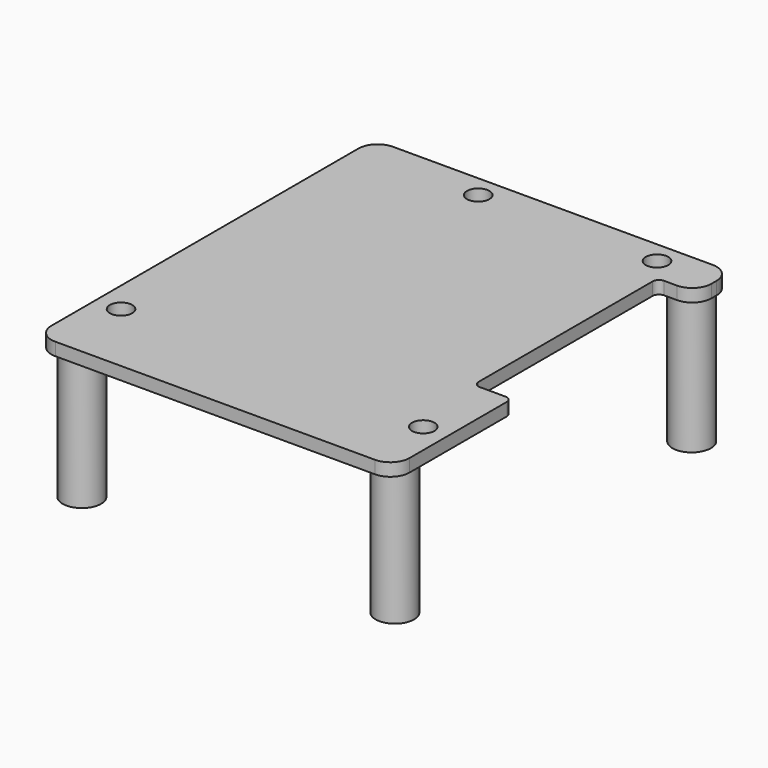
from build123d import *

# Parameters (mm, degrees)
PAD_DEPTH     = 2
SKETCH001_R   = 1.75
POCKET_DEPTH  = 5
SKETCH002_R   = 3
SKETCH002_R_2 = 1.6
PAD001_DEPTH  = 21


with BuildPart() as part:
    # Sketch → Pad (new body)
    with BuildSketch(Plane.XY):
        with BuildLine():
            Line((-25.000066, 40.999736), (24.999953, 40.999736))
            ThreePointArc((28.000009, 38.000002), (27.121199, 40.121154), (24.999953, 40.999736))
            Line((28.000009, 38.000002), (28.000116, 37))
            ThreePointArc((25.000438, 34), (27.121645, 34.878699), (28.000116, 37))
            Line((25.000438, 34), (23, 34))
            ThreePointArc((23, 34), (22.292893, 33.707107), (22, 33))
            Line((22, 33), (22, -1.000001))
            ThreePointArc((22, -1.000001), (22.292893, -1.707108), (23, -2.000001))
            Line((23, -2.000001), (26.999998, -2.000001))
            ThreePointArc((27.999996, -2.999999), (27.707103, -2.292894), (26.999998, -2.000001))
            Line((27.999996, -2.999999), (27.999996, -21.999992))
            ThreePointArc((25.000004, -24.999984), (27.121319, -24.121306), (27.999996, -21.999992))
            Line((25.000004, -24.999984), (-24.999967, -24.999984))
            ThreePointArc((-27.999934, -22.000016), (-27.121264, -24.121314), (-24.999967, -24.999984))
            Line((-27.999934, -22.000016), (-27.999934, 37.999868))
            ThreePointArc((-25.000066, 40.999736), (-27.121293, 40.121095), (-27.999934, 37.999868))
        make_face()
    extrude(amount=-PAD_DEPTH)

    # Sketch001 (on Face16 of Pad) → Pocket (cut)
    with BuildSketch(Plane.XY):
        with Locations((-8.896551, 37.535175)):
            Circle(SKETCH001_R)
        with Locations((19.048174, 37.554218)):
            Circle(SKETCH001_R)
        with Locations((-24.112202, -13.254919)):
            Circle(SKETCH001_R)
        with Locations((24.153093, -14.517437)):
            Circle(SKETCH001_R)
    extrude(amount=-POCKET_DEPTH, mode=Mode.SUBTRACT)

    # Sketch002 (on Face5 of Pocket) → Pad001 (join)
    with BuildSketch(Plane(origin=(0, 0, -2), x_dir=(1, 0, 0), z_dir=(0, 0, -1))):
        with Locations((-24.440964, 20.497406)):
            Circle(SKETCH002_R)
        with Locations((-24.440964, 20.497406)):
            Circle(SKETCH002_R_2, mode=Mode.SUBTRACT)
        with Locations((24.491911, 20.496445)):
            Circle(SKETCH002_R)
        with Locations((24.491911, 20.496445)):
            Circle(SKETCH002_R_2, mode=Mode.SUBTRACT)
        with Locations((-24.511511, -37.516029)):
            Circle(SKETCH002_R)
        with Locations((-24.511511, -37.516029)):
            Circle(SKETCH002_R_2, mode=Mode.SUBTRACT)
        with Locations((24.504074, -37.505135)):
            Circle(SKETCH002_R)
        with Locations((24.504074, -37.505135)):
            Circle(SKETCH002_R_2, mode=Mode.SUBTRACT)
    extrude(amount=PAD001_DEPTH)


with BuildPart() as part_1:
    # Body placement: moved
    add(part.part.moved(Location((0, 0, 24.5))))


solid = part_1.part
